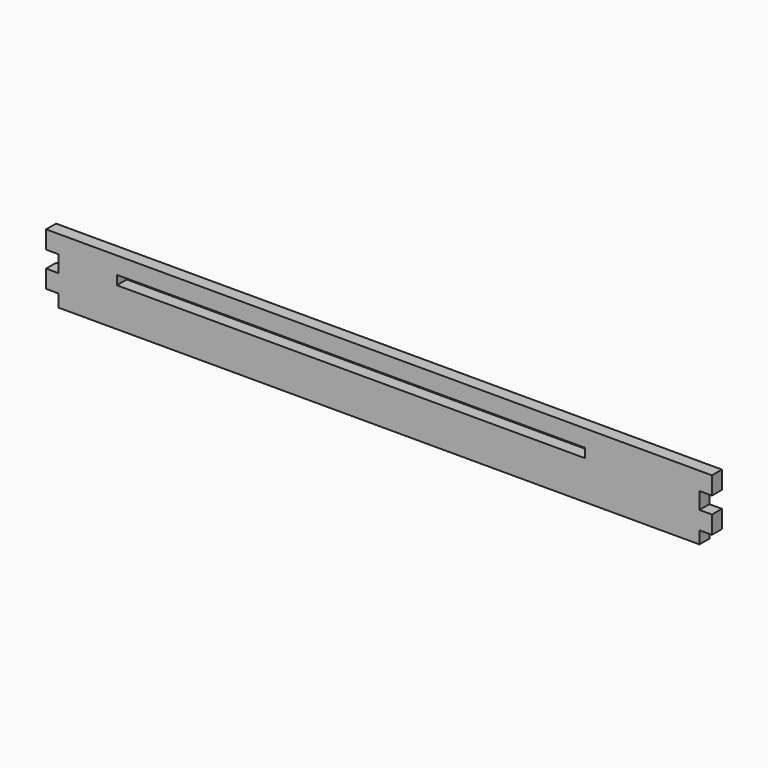
from build123d import *

# Parameters (mm, degrees)
F0_W     = 254
F0_H     = 24.7625
F1_DEPTH = 4.7625
F2_W     = 4.7625
F2_H     = 6.35
F3_DEPTH = 25.4
F4_W     = 4.7625
F4_H     = 4.7625
F5_DEPTH = 25.4
F6_W     = 5.5
F6_H     = 3.5
F6_W_2   = 2.5
F6_W_3   = 3
F7_DEPTH = 25.4


with BuildPart() as f1:
    # F0 (on Front) → F1 (new body)
    with BuildSketch(Plane.XZ):
        Rectangle(F0_W, F0_H)
    extrude(amount=F1_DEPTH)

    # F2 (on face) → F3 (cut)
    with BuildSketch(Plane.XZ.offset(4.7625)):
        with Locations((-124.61875, 2.38125)):
            Rectangle(F2_W, F2_H)
        with Locations((124.61875, 2.38125)):
            Rectangle(F2_W, F2_H)
    extrude(amount=-F3_DEPTH, mode=Mode.SUBTRACT)

    # F4 (on face) → F5 (cut)
    with BuildSketch(Plane.XZ.offset(4.7625)):
        with Locations((124.61875, -10)):
            Rectangle(F4_W, F4_H)
        with Locations((-124.61875, -10)):
            Rectangle(F4_W, F4_H)
    extrude(amount=-F5_DEPTH, mode=Mode.SUBTRACT)

    # F6 (on face) → F7 (cut)
    with BuildSketch(Plane.XZ.offset(4.7625)):
        with Locations((-97.250009, 4.13125)):
            Rectangle(F6_W, F6_H)
        with Locations((-93.250009, 4.13125)):
            Rectangle(F6_W_2, F6_H)
        with Locations((-90.500009, 4.13125)):
            Rectangle(F6_W_3, F6_H)
        with Locations((-87.750009, 4.13125)):
            Rectangle(F6_W_2, F6_H)
        with Locations((-85.000009, 4.13125)):
            Rectangle(F6_W_3, F6_H)
        with Locations((-82.250009, 4.13125)):
            Rectangle(F6_W_2, F6_H)
        with Locations((-79.500009, 4.13125)):
            Rectangle(F6_W_3, F6_H)
        with Locations((-76.750009, 4.13125)):
            Rectangle(F6_W_2, F6_H)
        with Locations((-74.000009, 4.13125)):
            Rectangle(F6_W_3, F6_H)
        with Locations((-71.250009, 4.13125)):
            Rectangle(F6_W_2, F6_H)
        with Locations((-68.500009, 4.13125)):
            Rectangle(F6_W_3, F6_H)
        with Locations((-65.750009, 4.13125)):
            Rectangle(F6_W_2, F6_H)
        with Locations((-63.000009, 4.13125)):
            Rectangle(F6_W_3, F6_H)
        with Locations((-60.250009, 4.13125)):
            Rectangle(F6_W_2, F6_H)
        with Locations((-57.500009, 4.13125)):
            Rectangle(F6_W_3, F6_H)
        with Locations((-54.750009, 4.13125)):
            Rectangle(F6_W_2, F6_H)
        with Locations((-52.000009, 4.13125)):
            Rectangle(F6_W_3, F6_H)
        with Locations((-49.250009, 4.13125)):
            Rectangle(F6_W_2, F6_H)
        with Locations((-46.500009, 4.13125)):
            Rectangle(F6_W_3, F6_H)
        with Locations((-43.750009, 4.13125)):
            Rectangle(F6_W_2, F6_H)
        with Locations((-41.000009, 4.13125)):
            Rectangle(F6_W_3, F6_H)
        with Locations((-38.250009, 4.13125)):
            Rectangle(F6_W_2, F6_H)
        with Locations((-35.500009, 4.13125)):
            Rectangle(F6_W_3, F6_H)
        with Locations((-32.750009, 4.13125)):
            Rectangle(F6_W_2, F6_H)
        with Locations((-30.000009, 4.13125)):
            Rectangle(F6_W_3, F6_H)
        with Locations((-27.250009, 4.13125)):
            Rectangle(F6_W_2, F6_H)
        with Locations((-24.500009, 4.13125)):
            Rectangle(F6_W_3, F6_H)
        with Locations((-21.750009, 4.13125)):
            Rectangle(F6_W_2, F6_H)
        with Locations((-19.000009, 4.13125)):
            Rectangle(F6_W_3, F6_H)
        with Locations((-16.250009, 4.13125)):
            Rectangle(F6_W_2, F6_H)
        with Locations((-13.500009, 4.13125)):
            Rectangle(F6_W_3, F6_H)
        with Locations((-10.750009, 4.13125)):
            Rectangle(F6_W_2, F6_H)
        with Locations((-8.000009, 4.13125)):
            Rectangle(F6_W_3, F6_H)
        with Locations((-5.250009, 4.13125)):
            Rectangle(F6_W_2, F6_H)
        with Locations((-2.500009, 4.13125)):
            Rectangle(F6_W_3, F6_H)
        with Locations((0.249991, 4.13125)):
            Rectangle(F6_W_2, F6_H)
        with Locations((2.999991, 4.13125)):
            Rectangle(F6_W_3, F6_H)
        with Locations((5.749991, 4.13125)):
            Rectangle(F6_W_2, F6_H)
        with Locations((8.499991, 4.13125)):
            Rectangle(F6_W_3, F6_H)
        with Locations((11.249991, 4.13125)):
            Rectangle(F6_W_2, F6_H)
        with Locations((13.999991, 4.13125)):
            Rectangle(F6_W_3, F6_H)
        with Locations((16.749991, 4.13125)):
            Rectangle(F6_W_2, F6_H)
        with Locations((19.499991, 4.13125)):
            Rectangle(F6_W_3, F6_H)
        with Locations((22.249991, 4.13125)):
            Rectangle(F6_W_2, F6_H)
        with Locations((24.999991, 4.13125)):
            Rectangle(F6_W_3, F6_H)
        with Locations((27.749991, 4.13125)):
            Rectangle(F6_W_2, F6_H)
        with Locations((30.499991, 4.13125)):
            Rectangle(F6_W_3, F6_H)
        with Locations((33.249991, 4.13125)):
            Rectangle(F6_W_2, F6_H)
        with Locations((35.999991, 4.13125)):
            Rectangle(F6_W_3, F6_H)
        with Locations((38.749991, 4.13125)):
            Rectangle(F6_W_2, F6_H)
        with Locations((41.499991, 4.13125)):
            Rectangle(F6_W_3, F6_H)
        with Locations((44.249991, 4.13125)):
            Rectangle(F6_W_2, F6_H)
        with Locations((46.999991, 4.13125)):
            Rectangle(F6_W_3, F6_H)
        with Locations((49.749991, 4.13125)):
            Rectangle(F6_W_2, F6_H)
        with Locations((52.499991, 4.13125)):
            Rectangle(F6_W_3, F6_H)
        with Locations((55.249991, 4.13125)):
            Rectangle(F6_W_2, F6_H)
        with Locations((57.999991, 4.13125)):
            Rectangle(F6_W_3, F6_H)
        with Locations((60.749991, 4.13125)):
            Rectangle(F6_W_2, F6_H)
        with Locations((63.499991, 4.13125)):
            Rectangle(F6_W_3, F6_H)
        with Locations((66.249991, 4.13125)):
            Rectangle(F6_W_2, F6_H)
        with Locations((68.999991, 4.13125)):
            Rectangle(F6_W_3, F6_H)
        with Locations((71.749991, 4.13125)):
            Rectangle(F6_W_2, F6_H)
        with Locations((75.749991, 4.13125)):
            Rectangle(F6_W, F6_H)
    extrude(amount=-F7_DEPTH, mode=Mode.SUBTRACT)


solid = f1.part
